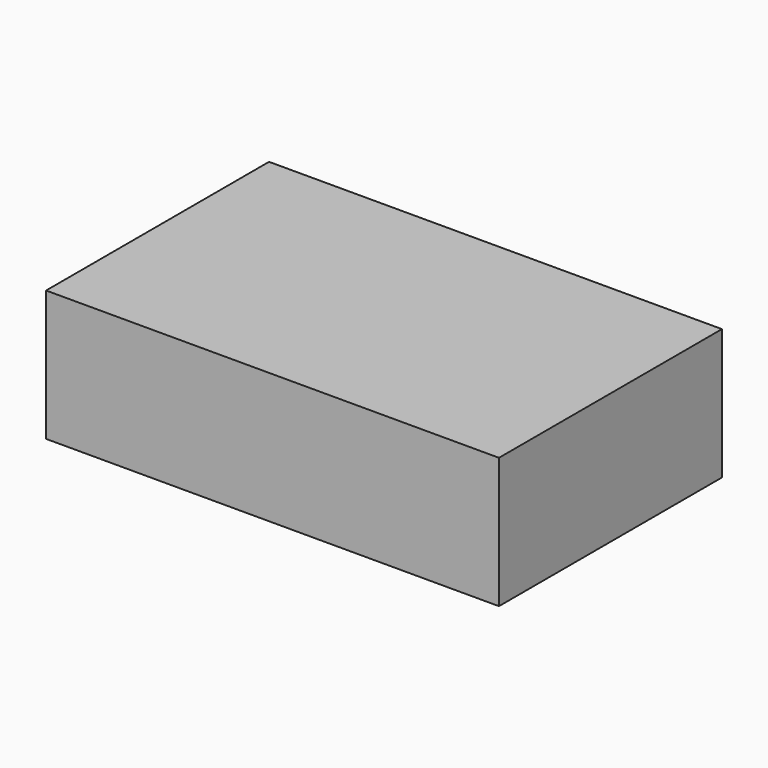
from build123d import *

# Parameters (mm, degrees)
SKETCH_W  = 52
SKETCH_H  = 32
PAD_DEPTH = 15


with BuildPart() as part:
    # Sketch → Pad (new body)
    with BuildSketch(Plane.XY):
        with Locations((26, 16)):
            Rectangle(SKETCH_W, SKETCH_H)
    extrude(amount=PAD_DEPTH)


solid = part.part
